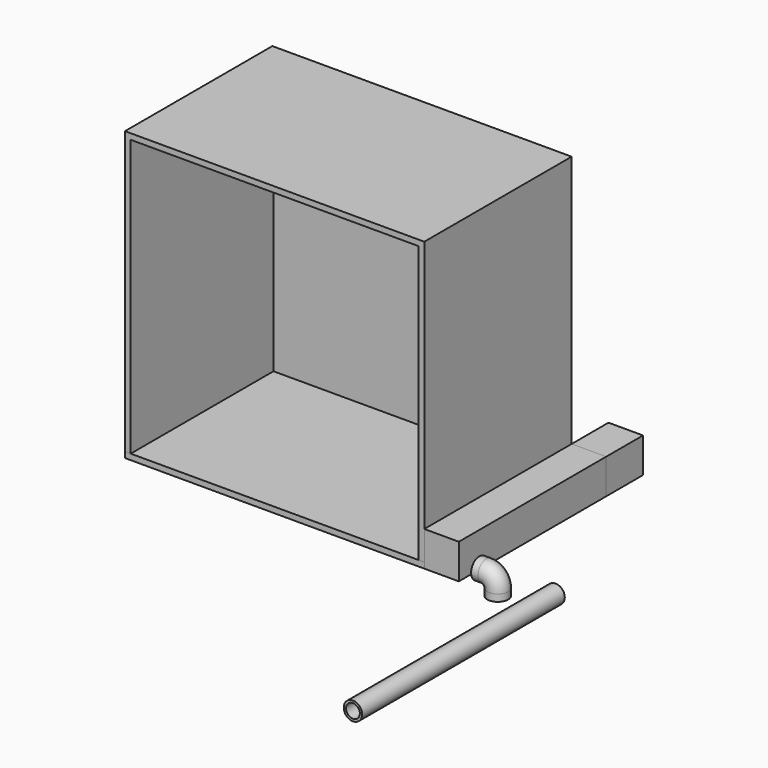
from build123d import *

# Parameters (mm, degrees)
F0_W      = 38.1
F0_H      = 38.5053354341
F1_DEPTH  = 254
F2_DEPTH  = 203.2
F3_W      = 330.2
F3_H      = 203.2
F4_DEPTH  = 6.35
F5_R      = 10.16
F5_R_2    = 7.62
F6_DEPTH  = 279.4
F8_R      = 11.43
F8_R_2    = 10.16
F11_DEPTH = 304.8
F12_W     = 317.5
F12_H     = 196.85
F13_DEPTH = 6.35


with BuildPart() as f1:
    # F0 (on Front) → F1 (new body)
    with BuildSketch(Plane.XZ):
        with Locations((19.05, 19.2526677171)):
            Rectangle(F0_W, F0_H)
    extrude(amount=-F1_DEPTH)


with BuildPart() as f2:
    # F0 (on Front) → F2 (new body)
    with BuildSketch(Plane.XZ):
        with Locations((19.05, 19.2526677171)):
            Rectangle(F0_W, F0_H)
    extrude(amount=-F2_DEPTH)


with BuildPart() as f4:
    # F3 (on Top) → F4 (new body)
    with BuildSketch(Plane.XY):
        with Locations((-165.1, 101.6)):
            Rectangle(F3_W, F3_H)
    extrude(amount=F4_DEPTH)


with BuildPart() as f6:
    # F5 (on Front) → F6 (new body)
    with BuildSketch(Plane.XZ):
        with Locations((144.8139250278, 22.4812030792)):
            Circle(F5_R)
        with Locations((144.8139250278, 22.4812030792)):
            Circle(F5_R_2, mode=Mode.SUBTRACT)
    extrude(amount=F6_DEPTH)


with BuildPart() as f9:
    # F9: sweep along a path in F7
    with BuildLine(Plane.XZ) as f9_path:
        Line((81.0604697181, 0), (81.0604697181, 7.62))
        ThreePointArc((81.0604697181, 7.62), (77.3407258392, 16.6002561211), (68.3604697181, 20.32))
        Line((68.3604697181, 20.32), (60.7404697181, 20.32))
    # F8 (on Top) → F9 (sweep)
    with BuildSketch(Plane.XY):
        with Locations((81.0604697181, 0)):
            Circle(F8_R)
        with Locations((81.0604697181, 0)):
            Circle(F8_R_2, mode=Mode.SUBTRACT)
    sweep(path=f9_path.line)


with BuildPart() as f11:
    # F10 (on face) → F11 (new body)
    with BuildSketch(Plane.XY.offset(6.35)):
        Polygon((-330.2, 203.2), (-330.2, 0), (-323.85, 0), (-323.85, 196.85), (-6.35, 196.85), (-6.35, 0), (0, 0), (0, 203.2), align=None)
    extrude(amount=F11_DEPTH)

    # F12 (on face) → F13 (join)
    with BuildSketch(Plane.XY.offset(311.15)):
        with Locations((-165.1, 98.425)):
            Rectangle(F12_W, F12_H)
        Polygon((-330.2, 203.2), (-330.2, 0), (-323.85, 0), (-323.85, 196.85), (-6.35, 196.85), (-6.35, 0), (0, 0), (0, 203.2), align=None)
    extrude(amount=F13_DEPTH)


solid = Compound([f1.part, f2.part, f4.part, f6.part, f9.part, f11.part])
